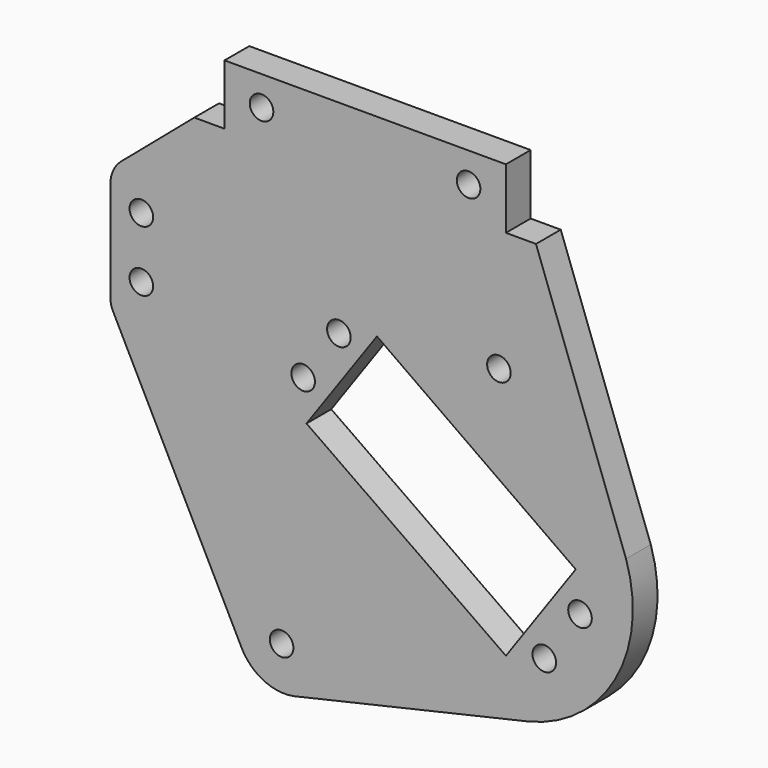
from build123d import *

# Parameters (mm, degrees)
F0_R     = 1.905
F1_DEPTH = 5


with BuildPart() as f1:
    # F0 (on Front) → F1 (new body)
    with BuildSketch(Plane.XZ):
        with BuildLine():
            Line((65.113842, 89.450538), (19.638577, 89.450538))
            Line((19.638577, 89.450538), (19.638577, 79.722829))
            Line((19.638577, 79.722829), (14.755342, 79.722829))
            Line((14.755342, 79.722829), (2.940716, 69.650203))
            ThreePointArc((2.940716, 69.650203), (1.762344, 68.177362), (1.214478, 66.372462))
            Line((1.214478, 66.372462), (1.214478, 49.523853))
            ThreePointArc((1.214478, 49.523853), (1.301303, 48.742133), (1.557545, 47.998518))
            Line((1.557545, 47.998518), (22.394331, 6.778323))
            ThreePointArc((22.394331, 6.778323), (25.894047, 3.30378), (30.777479, 2.616351))
            Line((30.777479, 2.616351), (68.54441, 11.307366))
            ThreePointArc((68.54441, 11.307366), (82.783914, 21.945088), (84.528677, 39.633512))
            Line((84.528677, 39.633512), (69.979429, 79.702094))
            Line((69.979429, 79.702094), (65.113842, 79.702094))
            Line((65.113842, 79.702094), (65.113842, 89.450538))
        make_face()
        with Locations((28.860504, 9.454119)):
            Circle(F0_R, mode=Mode.SUBTRACT)
        with Locations((71.314917, 21.167528)):
            Circle(F0_R, mode=Mode.SUBTRACT)
        Polygon((65.114856, 19.524755), (32.888938, 42.093192), (44.271119, 58.196455), (76.398229, 35.488227), align=None, mode=Mode.SUBTRACT)
        with Locations((77.09127, 29.339786)):
            Circle(F0_R, mode=Mode.SUBTRACT)
        with Locations((6.189452, 53.549591)):
            Circle(F0_R, mode=Mode.SUBTRACT)
        with Locations((6.192373, 63.382605)):
            Circle(F0_R, mode=Mode.SUBTRACT)
        with Locations((32.347996, 48.456819)):
            Circle(F0_R, mode=Mode.SUBTRACT)
        with Locations((38.124348, 56.629078)):
            Circle(F0_R, mode=Mode.SUBTRACT)
        with Locations((25.618793, 84.67719)):
            Circle(F0_R, mode=Mode.SUBTRACT)
        with Locations((63.986167, 59.999965)):
            Circle(F0_R, mode=Mode.SUBTRACT)
        with Locations((59.080809, 84.597848)):
            Circle(F0_R, mode=Mode.SUBTRACT)
    extrude(amount=-F1_DEPTH)


solid = f1.part
